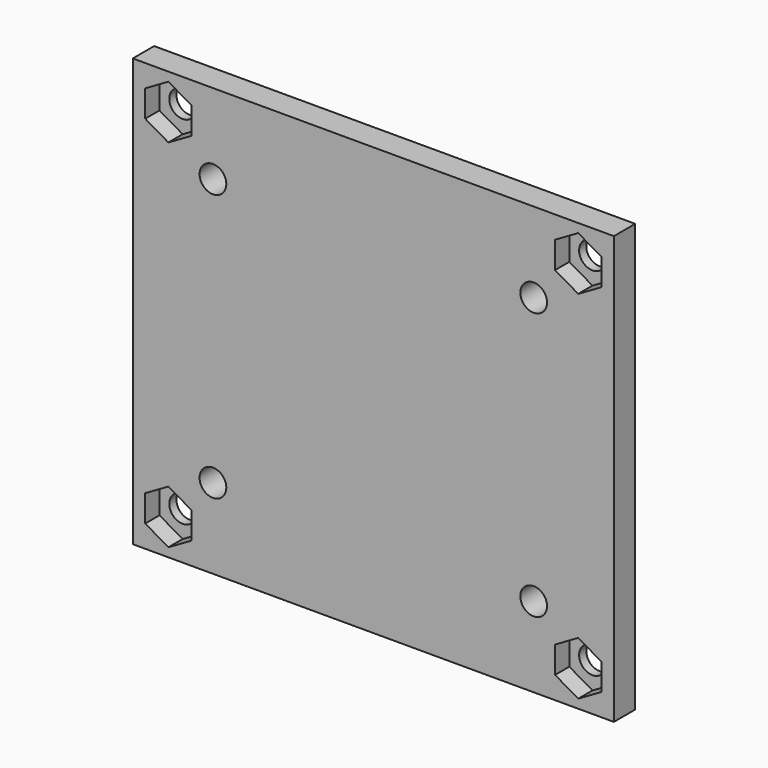
from build123d import *

# Parameters (mm, degrees)
F0_W     = 54
F0_H     = 48
F0_R     = 1.5
F1_DEPTH = 3
F2_R     = 1.5
F3_DEPTH = 2


with BuildPart() as f1:
    # F0 (on Front) → F1 (new body)
    with BuildSketch(Plane.XZ):
        Rectangle(F0_W, F0_H)
        with Locations((-23, -20)):
            Circle(F0_R, mode=Mode.SUBTRACT)
        with Locations((-18, -15)):
            Circle(F0_R, mode=Mode.SUBTRACT)
        with Locations((23, -20)):
            Circle(F0_R, mode=Mode.SUBTRACT)
        with Locations((18, -15)):
            Circle(F0_R, mode=Mode.SUBTRACT)
        with Locations((-18, 15)):
            Circle(F0_R, mode=Mode.SUBTRACT)
        with Locations((-23, 20)):
            Circle(F0_R, mode=Mode.SUBTRACT)
        with Locations((18, 15)):
            Circle(F0_R, mode=Mode.SUBTRACT)
        with Locations((23, 20)):
            Circle(F0_R, mode=Mode.SUBTRACT)
    extrude(amount=F1_DEPTH)

    # F2 (on face) → F3 (cut)
    with BuildSketch(Plane.XZ.offset(3)):
        Polygon((-25.6, -18.498889), (-25.6, -21.501111), (-23, -23.002221), (-20.4, -21.501111), (-20.4, -18.498889), (-23, -16.997779), align=None)
        with Locations((-23, -20)):
            Circle(F2_R, mode=Mode.SUBTRACT)
        Polygon((23, -16.997779), (20.4, -18.498889), (20.4, -21.501111), (23, -23.002221), (25.6, -21.501111), (25.6, -18.498889), align=None)
        with Locations((23, -20)):
            Circle(F2_R, mode=Mode.SUBTRACT)
        Polygon((-25.6, 21.501111), (-25.6, 18.498889), (-23, 16.997779), (-20.4, 18.498889), (-20.4, 21.501111), (-23, 23.002221), align=None)
        with Locations((-23, 20)):
            Circle(F2_R, mode=Mode.SUBTRACT)
        Polygon((20.4, 18.498889), (23, 16.997779), (25.6, 18.498889), (25.6, 21.501111), (23, 23.002221), (20.4, 21.501111), align=None)
        with Locations((23, 20)):
            Circle(F2_R, mode=Mode.SUBTRACT)
    extrude(amount=-F3_DEPTH, mode=Mode.SUBTRACT)


solid = f1.part
